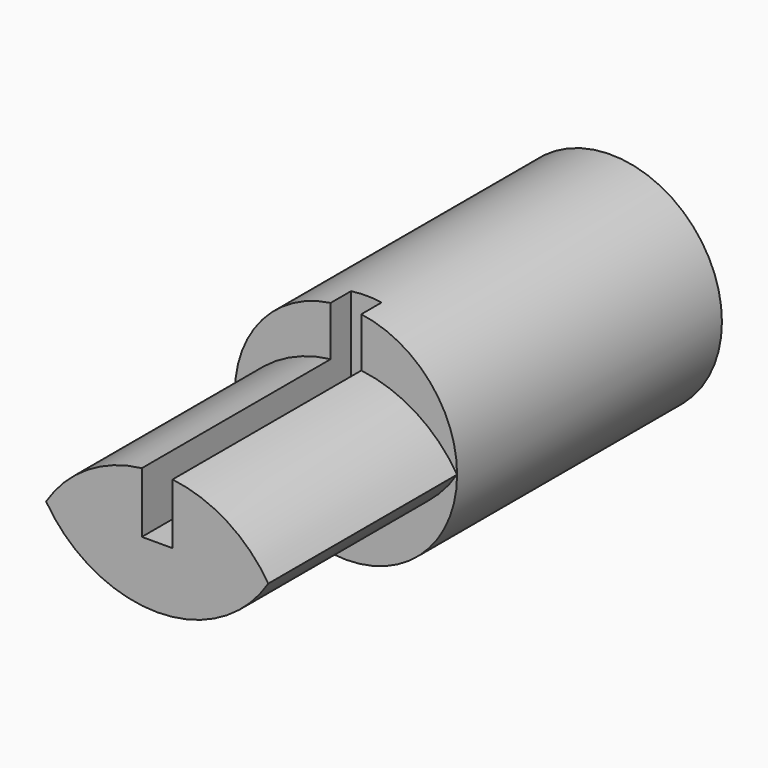
from build123d import *

# Parameters (mm, degrees)
F0_R     = 36.83
F1_DEPTH = 109.728
F3_DEPTH = 78.232
F5_DEPTH = 36.831


with BuildPart() as f1:
    # F0 (on Front) → F1 (new body)
    with BuildSketch(Plane.XZ):
        Circle(F0_R)
    extrude(amount=F1_DEPTH)

    # F2 (on face) → F3 (join)
    with BuildSketch(Plane.XZ.offset(109.728)):
        with BuildLine():
            ThreePointArc((-36.83, 0), (0, -20.352412), (36.83, 0))
            ThreePointArc((36.83, 0), (0, 20.352412), (-36.83, 0))
        make_face()
    extrude(amount=F3_DEPTH)

    # F4 (on Top) → F5 (cut, through all)
    with BuildSketch(Plane.XY):
        Polygon((-5.079485, -101.294816), (-5.079485, -189.798206), (0, -189.798206), (5.079485, -189.798206), (5.079485, -101.294816), align=None)
    extrude(amount=F5_DEPTH, mode=Mode.SUBTRACT)


solid = f1.part
